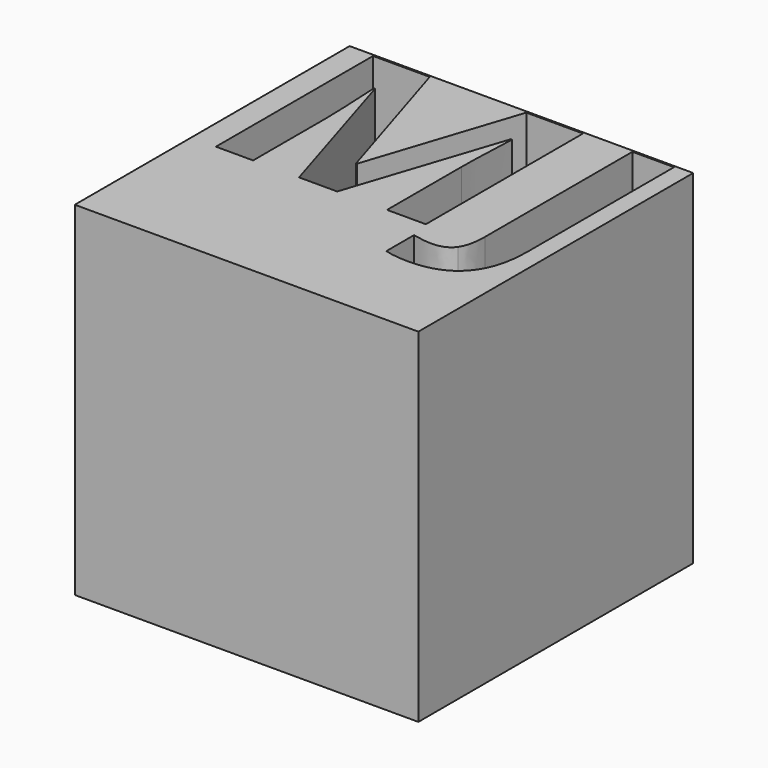
from build123d import *

# Parameters (mm, degrees)
F0_W     = 38.1
F0_H     = 38.1
F1_DEPTH = 38.1


with BuildPart() as f1:
    # F0 (on Top) → F1 (new body)
    with BuildSketch(Plane.XY):
        with Locations((19.05, 19.05)):
            Rectangle(F0_W, F0_H)
        with BuildLine():
            Line((16.1923808332, 16.1351807832), (11.95957713, 16.1351807832))
            Line((11.95957713, 16.1351807832), (6.7162392093, 33.2189290629))
            Line((6.7162392093, 33.2189290629), (6.5827724259, 33.2189290629))
            add(Edge.make_bspline(
                [(6.5827724259, 33.2189290629), (6.8687726761, 28.0089578381), (6.8687726761, 26.2643563118)],
                knots=[0, 0, 0, 1, 1, 1], degree=2))
            Line((6.8687726761, 26.2643563118), (6.8687726761, 16.1351807832))
            Line((6.8687726761, 16.1351807832), (2.7408357313, 16.1351807832))
            Line((2.7408357313, 16.1351807832), (2.7408357313, 37.9140998374))
            Line((2.7408357313, 37.9140998374), (9.0280745652, 37.9140998374))
            Line((9.0280745652, 37.9140998374), (14.18084574, 21.2593519329))
            Line((14.18084574, 21.2593519329), (14.2714124859, 21.2593519329))
            Line((14.2714124859, 21.2593519329), (19.7387839359, 37.9140998374))
            Line((19.7387839359, 37.9140998374), (26.0212560991, 37.9140998374))
            Line((26.0212560991, 37.9140998374), (26.0212560991, 16.1351807832))
            Line((26.0212560991, 16.1351807832), (21.7169523333, 16.1351807832))
            Line((21.7169523333, 16.1351807832), (21.7169523333, 26.4454898036))
            add(Edge.make_bspline(
                [(21.7169523333, 26.4454898036), (21.7169523333, 27.1747904416), (21.7407856875, 28.128124609)],
                knots=[0, 0, 0, 1, 1, 1], degree=2))
            add(Edge.make_bspline(
                [(21.7407856875, 28.128124609), (21.7646190417, 29.0814587764), (21.9409858626, 33.1903290379)],
                knots=[0, 0, 0, 1, 1, 1], degree=2))
            Line((21.9409858626, 33.1903290379), (21.8075190792, 33.1903290379))
            Line((21.8075190792, 33.1903290379), (16.1923808332, 16.1351807832))
        make_face(mode=Mode.SUBTRACT)
        with BuildLine():
            add(Edge.make_bspline(
                [(34.3796134117, 11.726010259), (32.6373952208, 9.7287751783), (29.2244589015, 9.7287751783)],
                knots=[0, 0, 0, 1, 1, 1], degree=2))
            add(Edge.make_bspline(
                [(29.2244589015, 9.7287751783), (27.660990867, 9.7287751783), (26.4979231828, 10.057675466)],
                knots=[0, 0, 0, 1, 1, 1], degree=2))
            Line((26.4979231828, 10.057675466), (26.4979231828, 13.8996121606))
            add(Edge.make_bspline(
                [(26.4979231828, 13.8996121606), (27.689590892, 13.6040785687), (28.6715250844, 13.6040785687)],
                knots=[0, 0, 0, 1, 1, 1], degree=2))
            add(Edge.make_bspline(
                [(28.6715250844, 13.6040785687), (30.1920930814, 13.6040785687), (30.8475103215, 14.5502627299)],
                knots=[0, 0, 0, 1, 1, 1], degree=2))
            add(Edge.make_bspline(
                [(30.8475103215, 14.5502627299), (31.5029275616, 15.496446891), (31.5029275616, 17.5079819842)],
                knots=[0, 0, 0, 1, 1, 1], degree=2))
            Line((31.5029275616, 17.5079819842), (31.5029275616, 37.9140998374))
            Line((31.5029275616, 37.9140998374), (36.1218316027, 37.9140998374))
            Line((36.1218316027, 37.9140998374), (36.1218316027, 17.5365820093))
            add(Edge.make_bspline(
                [(36.1218316027, 17.5365820093), (36.1218316027, 13.7232453397), (34.3796134117, 11.726010259)],
                knots=[0, 0, 0, 1, 1, 1], degree=2))
        make_face(mode=Mode.SUBTRACT)
    extrude(amount=F1_DEPTH)


solid = f1.part
